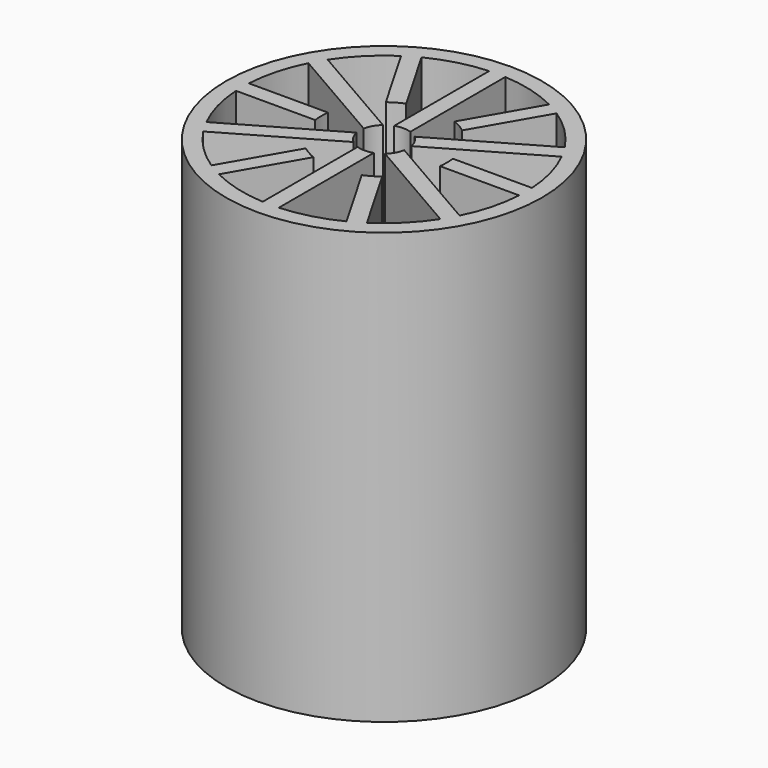
from build123d import *

# Parameters (mm, degrees)
F0_R     = 15.5321
F0_R_2   = 2.38125
F1_DEPTH = 42.3672
F3_DEPTH = 42.3672
F4_COUNT = 6
F4_ANGLE = 300


with BuildPart() as f1:
    # F0 (on Top) → F1 (new body)
    with BuildSketch(Plane.XY):
        Circle(F0_R)
        Circle(F0_R_2, mode=Mode.SUBTRACT)
    extrude(amount=F1_DEPTH)

    # F2 (on face) → F3 (cut, through all)
    with BuildSketch(Plane.XY.offset(42.3672)):
        with BuildLine():
            ThreePointArc((-1.5474074833, 1.8099396794), (-1.190625, 2.0622229928), (-0.79375, 2.2450640303))
            Line((-0.79375, 2.2450640303), (-0.79375, 13.9219908812))
            ThreePointArc((-0.79375, 13.9219908812), (-3.6091280563, 13.4694492773), (-6.2735877764, 12.4536727744))
            Line((-6.2735877764, 12.4536727744), (-2.38125, 5.7119459855))
            ThreePointArc((-2.38125, 5.7119459855), (-3.0942155106, 5.3593384739), (-3.7560653285, 4.9181959855))
            Line((-3.7560653285, 4.9181959855), (-7.6484031049, 11.6599227744))
            ThreePointArc((-7.6484031049, 11.6599227744), (-9.8603212209, 9.8603212209), (-11.6599227744, 7.6484031049))
            Line((-11.6599227744, 7.6484031049), (-1.5474074833, 1.8099396794))
        make_face()
    f3 = extrude(amount=-F3_DEPTH, mode=Mode.SUBTRACT)

    # F4: F3 ×6 about axis
    f4_axis = Axis((0, 0, 0), (0, 0, 1))
    for i in range(1, F4_COUNT):
        add(f3.rotate(f4_axis, i * F4_ANGLE / (F4_COUNT - 1)), mode=Mode.SUBTRACT)


solid = f1.part
